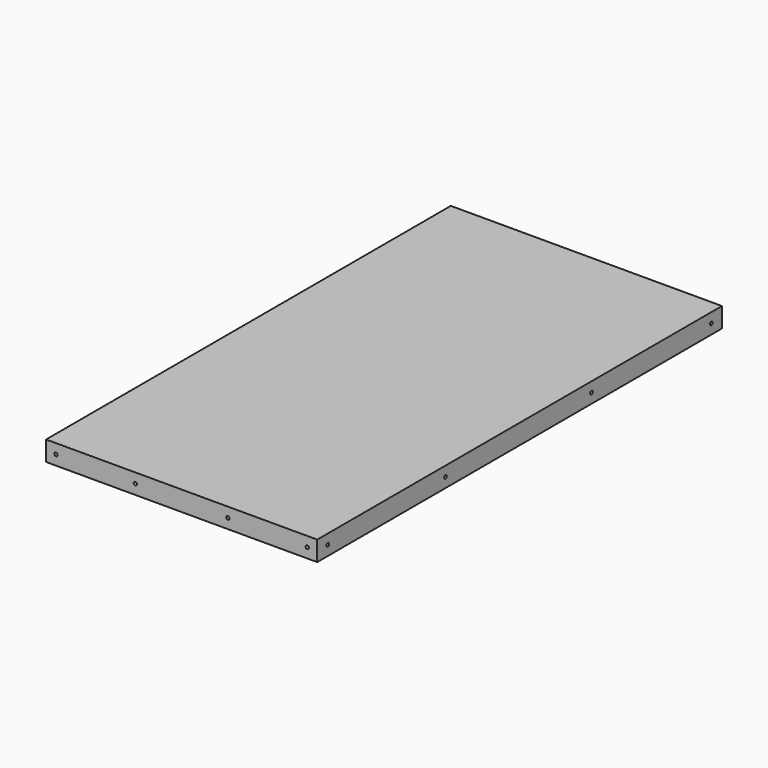
from build123d import *

# Parameters (mm, degrees)
F0_W     = 260.35
F0_H     = 485.775
F1_DEPTH = 19.05
F2_R     = 1.5875
F4_DEPTH = 9.398
F3_R     = 1.5875
F5_DEPTH = 9.525
F7_R     = 1.5875
F8_DEPTH = 9.525
F6_R     = 1.5875
F9_DEPTH = 9.525


with BuildPart() as f1:
    # F0 (on Top) → F1 (new body)
    with BuildSketch(Plane.XY):
        Rectangle(F0_W, F0_H)
    extrude(amount=F1_DEPTH)

    # F2 (on face) → F4 (cut)
    with BuildSketch(Plane.YZ.offset(130.175)):
        with Locations((230.1875, 9.525)):
            Circle(F2_R)
        with Locations((86.36, 9.525)):
            Circle(F2_R)
        with Locations((-88.9, 9.525)):
            Circle(F2_R)
        with Locations((-230.1875, 9.525)):
            Circle(F2_R)
    extrude(amount=-F4_DEPTH, mode=Mode.SUBTRACT)

    # F3 (on face) → F5 (cut)
    with BuildSketch(Plane(origin=(-130.175, 0, 0), x_dir=(0, -1, 0), z_dir=(-1, 0, 0))):
        with Locations((-230.1875, 9.525)):
            Circle(F3_R)
        with Locations((-88.9, 9.525)):
            Circle(F3_R)
        with Locations((86.36, 9.525)):
            Circle(F3_R)
        with Locations((230.1875, 9.525)):
            Circle(F3_R)
    extrude(amount=-F5_DEPTH, mode=Mode.SUBTRACT)

    # F7 (on face) → F8 (cut)
    with BuildSketch(Plane(origin=(0, 242.8875, 0), x_dir=(-1, 0, 0), z_dir=(0, 1, 0))):
        with Locations((-120.65, 9.525)):
            Circle(F7_R)
        with Locations((-44.45, 9.525)):
            Circle(F7_R)
        with Locations((44.45, 9.525)):
            Circle(F7_R)
        with Locations((120.65, 9.525)):
            Circle(F7_R)
    extrude(amount=-F8_DEPTH, mode=Mode.SUBTRACT)

    # F6 (on face) → F9 (cut)
    with BuildSketch(Plane.XZ.offset(242.8875)):
        with Locations((120.65, 9.525)):
            Circle(F6_R)
        with Locations((44.45, 9.525)):
            Circle(F6_R)
        with Locations((-44.45, 9.525)):
            Circle(F6_R)
        with Locations((-120.65, 9.525)):
            Circle(F6_R)
    extrude(amount=-F9_DEPTH, mode=Mode.SUBTRACT)


solid = f1.part
